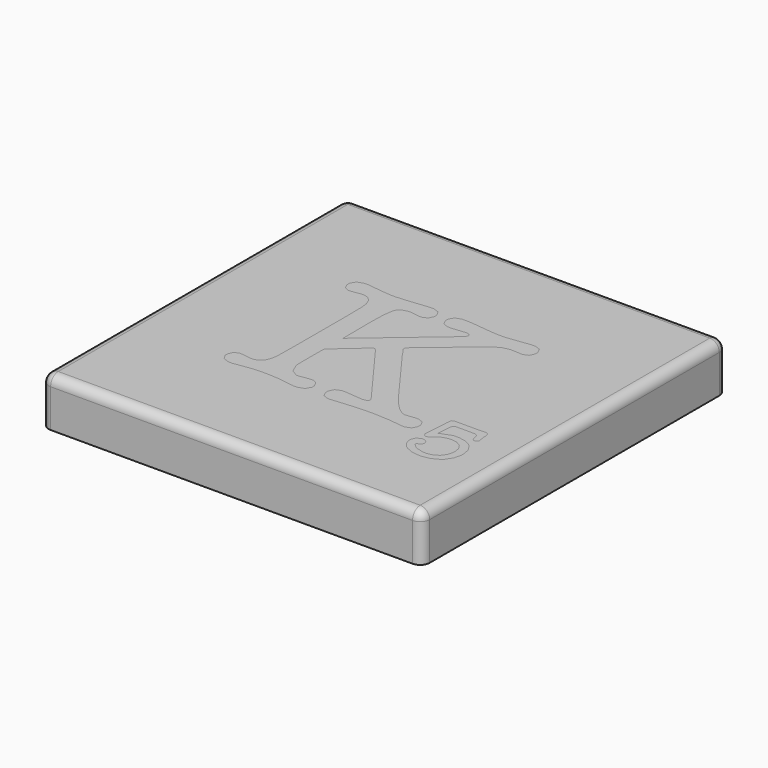
from build123d import *

# Parameters (mm, degrees)
F0_W     = 40
F0_H     = 40
F1_DEPTH = 5
F2_R     = 1
F5_DEPTH = 3


with BuildPart() as f1:
    # F0 (on Top) → F1 (new body)
    with BuildSketch(Plane.XY):
        Rectangle(F0_W, F0_H)
    extrude(amount=-F1_DEPTH)

    # F2
    f2_edges = [f1.edges().sort_by_distance(p)[0] for p in [
        (0, -20, 0),
        (20, 0, 0),
        (0, 20, 0),
        (-20, 0, 0),
        (-20, 20, -2.5),
        (20, 20, -2.5),
        (-20, -20, -2.5),
        (20, -20, -2.5),
    ]]
    fillet(f2_edges, radius=F2_R)


with BuildPart() as f5:
    # F3 (on Top) + F4 (on Top) → F5 (new body)
    with BuildSketch(Plane.XY):
        Polygon((3.002737, 6.535344), (-4.457954, 0.185344), (-4.485538, 3.466465), (-4.489679, 3.885387), (-4.445584, 5.514238), (-4.313276, 6.52018), (-4.273321, 6.627673), (-4.234713, 6.736537), (-3.864026, 7.115505), (-3.297682, 7.276744), (-3.108858, 7.276744), (-2.977947, 7.276744), (-2.585212, 7.23265), (-2.553513, 7.222998), (-2.479116, 7.210603), (-2.018843, 7.144461), (-1.839722, 7.144461), (-1.704645, 7.144461), (-1.296746, 7.35391), (-1.256792, 7.395261), (-1.218184, 7.437958), (-1.018362, 7.862392), (-1.018362, 8.016748), (-1.018362, 8.190382), (-1.296746, 8.711286), (-1.922374, 8.942781), (-2.130476, 8.942781), (-2.260016, 8.942781), (-2.647213, 8.904173), (-3.533292, 8.81187), (-3.770325, 8.784311), (-4.00873, 8.758123), (-5.02158, 8.66582), (-5.691302, 8.62584), (-5.913171, 8.62584), (-6.235649, 8.62584), (-7.201637, 8.714029), (-7.3422, 8.731961), (-8.612759, 8.890432), (-8.648573, 8.895918), (-8.870442, 8.916594), (-8.955888, 8.916594), (-9.179128, 8.916594), (-9.84885, 8.685098), (-10.146513, 8.164195), (-10.146513, 7.990561), (-10.146513, 7.827975), (-9.935667, 7.335977), (-9.460255, 7.116877), (-9.300388, 7.116877), (-8.666505, 7.18439), (-8.586572, 7.196811), (-8.538337, 7.210603), (-8.169021, 7.276744), (-8.029854, 7.276744), (-7.885151, 7.276744), (-7.451065, 7.152716), (-7.037654, 6.780632), (-6.789598, 6.160516), (-6.706921, 5.510098), (-6.706921, 5.292369), (-6.680733, 3.440303), (-6.680733, -3.466465), (-6.686245, -3.783406), (-6.701409, -4.880331), (-6.706921, -5.318557), (-6.706921, -5.534863), (-6.789598, -6.186703), (-7.037654, -6.806819), (-7.451065, -7.178878), (-7.885151, -7.302906), (-8.029854, -7.302906), (-8.156626, -7.302906), (-8.534197, -7.25744), (-8.586572, -7.24916), (-8.666505, -7.235393), (-9.122639, -7.170623), (-9.300388, -7.170623), (-9.454744, -7.170623), (-9.916389, -7.381443), (-10.120325, -7.85688), (-10.120325, -8.016723), (-10.120325, -8.190357), (-9.822663, -8.71126), (-9.152941, -8.942781), (-8.9297, -8.942781), (-8.77123, -8.942781), (-8.754694, -8.937269), (-8.652713, -8.916594), (-8.612759, -8.916594), (-7.157542, -8.704377), (-7.065213, -8.690585), (-6.106109, -8.625815), (-5.7547, -8.625815), (-5.348199, -8.625815), (-4.128592, -8.690585), (-4.034917, -8.704377), (-2.553513, -8.916594), (-2.512187, -8.916594), (-2.386762, -8.937269), (-2.36888, -8.942781), (-2.182825, -8.942781), (-1.965096, -8.942781), (-1.310538, -8.71126), (-1.018362, -8.190357), (-1.018362, -8.016723), (-1.018362, -7.870647), (-1.218184, -7.436587), (-1.256792, -7.395235), (-1.296746, -7.352513), (-1.694993, -7.143064), (-1.839722, -7.143064), (-2.000936, -7.143064), (-2.483256, -7.209206), (-2.553513, -7.222973), (-2.625166, -7.235393), (-2.990367, -7.302906), (-3.135046, -7.302906), (-3.356889, -7.302906), (-4.022522, -6.925335), (-4.423537, -6.044768), (-4.457954, -5.793943), (-4.463491, -5.766384), (-4.47863, -5.099431), (-4.485538, -3.775151), (-4.485538, -3.334182), (-4.485538, -3.08196), (-4.463491, -2.326818), (-4.457954, -2.248256), (-1.679829, 0.185344), (-1.641272, 0.221183), (-1.423543, 0.397586), (-1.336726, 0.397586), (-1.270584, 0.397586), (-1.072134, 0.221183), (-1.045972, 0.185344), (3.876421, -6.509156), (3.914978, -6.561531), (4.113403, -6.885356), (4.113403, -7.010756), (4.113403, -7.060362), (3.954958, -7.209206), (3.598037, -7.275347), (3.479546, -7.275347), (3.384423, -7.275347), (3.101975, -7.24916), (2.459761, -7.187159), (2.288921, -7.170623), (2.200732, -7.160971), (1.67292, -7.116877), (1.467587, -7.116877), (1.273302, -7.116877), (0.693141, -7.355281), (0.436829, -7.889951), (0.436829, -8.069097), (0.436829, -8.231708), (0.680745, -8.723655), (1.230579, -8.942781), (1.415237, -8.942781), (1.772133, -8.915222), (2.407412, -8.853195), (2.579675, -8.83666), (2.838755, -8.809101), (4.820336, -8.678189), (5.56862, -8.678189), (6.082665, -8.678189), (7.627442, -8.766378), (7.791399, -8.784311), (9.114333, -8.942781), (9.307246, -8.942781), (9.887407, -8.716772), (10.146487, -8.211033), (10.146487, -8.04291), (10.146487, -7.873416), (9.908083, -7.367676), (9.372016, -7.143064), (9.194267, -7.143064), (9.005443, -7.143064), (8.439099, -7.209206), (8.320583, -7.222973), (8.188274, -7.222973), (8.170367, -7.227113), (8.068412, -7.24916), (8.029804, -7.24916), (7.909941, -7.24916), (7.552995, -7.104482), (6.970116, -6.673139), (6.282461, -5.953811), (5.678856, -5.205527), (5.490083, -4.947844), (1.256767, 0.820623), (0.859892, 1.428318), (0.815797, 1.48209), (0.5953, 1.767357), (0.5953, 1.878965), (0.5953, 1.987829), (0.85852, 2.310282), (0.912241, 2.354377), (5.913145, 6.535344), (6.045429, 6.645605), (6.759245, 7.031457), (7.474458, 7.196811), (7.712888, 7.196811), (7.806563, 7.196811), (8.087716, 7.176135), (8.109763, 7.170623), (8.400517, 7.170623), (8.430819, 7.166508), (8.598941, 7.144461), (8.665083, 7.144461), (8.838743, 7.144461), (9.359621, 7.369073), (9.591142, 7.874813), (9.591142, 8.04291), (9.591142, 8.21243), (9.338945, 8.718169), (8.772576, 8.942781), (8.585149, 8.942781), (8.349539, 8.942781), (7.645349, 8.854592), (7.526833, 8.83666), (7.292569, 8.802243), (5.760187, 8.62584), (5.171745, 8.62584), (4.858944, 8.62584), (3.924656, 8.714029), (3.7703, 8.731961), (2.367458, 8.890432), (2.287549, 8.900058), (1.553032, 8.942781), (1.282929, 8.942781), (1.06934, 8.942781), (0.428549, 8.725052), (0.144653, 8.234477), (0.144653, 8.070494), (0.144653, 7.89686), (0.383083, 7.375957), (0.91915, 7.144461), (1.098296, 7.144461), (1.408354, 7.144461), (2.339899, 7.23265), (2.499741, 7.24916), (2.512162, 7.254697), (2.71747, 7.276744), (2.790495, 7.276744), (2.884221, 7.276744), (3.168117, 7.203694), (3.293491, 7.039712), (3.293491, 6.984568), (3.293491, 6.882638), (3.050946, 6.575323), align=None)
    with BuildSketch(Plane.XY):
        Polygon((12.147081, -8.154011), (12.261458, -6.62991), (12.265572, -6.572049), (12.459882, -6.286807), (12.527421, -6.286807), (14.518679, -6.286807), (14.602753, -6.286807), (14.857668, -6.41909), (14.980324, -6.730519), (14.984465, -6.82008), (14.987208, -6.894502), (15.075397, -7.154953), (15.249031, -7.267932), (15.308315, -7.267932), (15.388198, -7.267932), (15.632114, -7.039205), (15.632114, -6.963386), (15.632114, -6.915152), (15.60044, -6.77187), (15.594928, -6.753938), (15.581136, -6.697423), (15.519135, -6.317109), (15.519135, -6.17243), (15.527415, -6.106289), (15.527415, -6.000168), (15.432317, -5.684573), (15.217332, -5.544034), (15.14705, -5.544034), (15.060233, -5.544034), (14.803947, -5.559198), (14.757084, -5.563313), (14.732243, -5.564685), (14.441514, -5.57294), (14.336765, -5.57294), (12.612841, -5.57294), (12.147081, -5.582617), (12.137429, -5.579874), (12.017541, -5.57294), (11.974819, -5.57294), (11.889373, -5.57294), (11.634433, -5.670806), (11.62341, -5.691481), (11.611014, -5.710785), (11.547616, -6.246827), (11.546244, -6.335016), (11.544873, -6.395671), (11.528337, -6.8325), (11.526966, -6.858688), (11.394657, -8.696987), (11.391914, -8.69973), (11.385005, -8.725918), (11.385005, -8.73557), (11.385005, -8.812735), (11.477334, -9.048371), (11.685436, -9.154492), (11.755718, -9.154492), (11.794301, -9.154492), (11.816348, -9.150352), (11.998237, -9.082839), (12.013401, -9.073187), (12.027193, -9.062163), (12.272481, -8.844434), (12.308295, -8.811363), (12.395112, -8.724546), (12.922899, -8.425512), (13.518224, -8.297344), (13.718021, -8.297344), (13.87926, -8.297344), (14.364324, -8.397953), (14.787386, -8.633589), (14.856296, -8.701102), (14.925181, -8.768641), (15.166354, -9.180679), (15.271078, -9.653348), (15.271078, -9.811819), (15.271078, -9.978544), (15.14705, -10.478772), (14.861783, -10.937674), (14.780503, -11.01621), (14.697826, -11.094773), (14.222388, -11.368991), (13.701511, -11.487507), (13.527876, -11.487507), (13.268796, -11.487507), (12.491582, -11.276662), (12.408905, -11.235336), (12.324831, -11.192613), (11.908677, -10.809505), (11.908677, -10.668942), (11.908677, -10.652406), (12.003749, -10.6028), (12.023053, -10.601428), (12.083683, -10.601428), (12.265572, -10.502216), (12.284876, -10.482912), (12.302783, -10.462236), (12.393741, -10.272067), (12.393741, -10.201785), (12.393741, -10.112224), (12.262829, -9.844889), (12.236642, -9.821445), (12.210454, -9.796655), (11.933467, -9.678138), (11.832883, -9.678138), (11.707484, -9.678138), (11.335399, -9.871077), (11.299585, -9.911031), (11.262374, -9.949614), (11.080459, -10.342348), (11.080459, -10.487052), (11.080459, -10.646894), (11.249979, -11.129215), (11.646854, -11.58258), (11.76123, -11.663885), (11.874209, -11.743819), (12.516372, -12.023574), (13.195771, -12.144834), (13.423127, -12.144834), (13.691859, -12.144834), (14.499375, -11.979455), (15.228355, -11.593603), (15.352409, -11.483367), (15.47504, -11.37176), (15.904986, -10.718573), (16.089644, -9.99508), (16.089644, -9.753932), (16.089644, -9.53346), (15.933917, -8.876133), (15.572881, -8.300112), (15.4709, -8.206412), (15.367547, -8.111339), (14.739177, -7.780606), (14.023964, -7.640017), (13.785559, -7.640017), (13.406591, -7.640017), (12.269713, -8.06722), align=None)
    extrude(amount=-F5_DEPTH)


solid = Compound([f1.part, f5.part])
